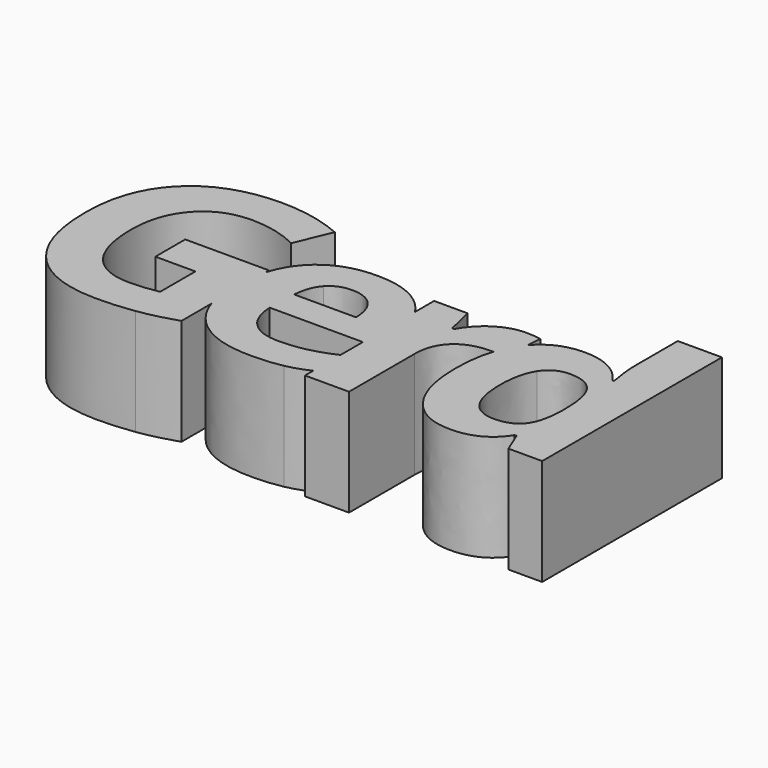
from build123d import *

# Parameters (mm, degrees)
F1_DEPTH = 10


with BuildPart() as f1:
    # F0 (on Top) → F1 (new body)
    with BuildSketch(Plane.XY):
        with BuildLine():
            Line((17.890625, 11.1371527778), (10.0217013889, 11.1371527778))
            Line((10.0217013889, 11.1371527778), (10.0217013889, 7.6345486111))
            Line((10.0217013889, 7.6345486111), (13.7803819444, 7.6345486111))
            Line((13.7803819444, 7.6345486111), (13.7803819444, 3.4982638889))
            add(Edge.make_bspline(
                [(11.1067708333, 3.2291666667), (12.4262152778, 3.2291666667), (13.7803819444, 3.4982638889)],
                knots=[0, 0, 0, 1, 1, 1], degree=2))
            add(Edge.make_bspline(
                [(7.2634548611, 4.9305555556), (8.5850694444, 3.2291666667), (11.1067708333, 3.2291666667)],
                knots=[0, 0, 0, 1, 1, 1], degree=2))
            add(Edge.make_bspline(
                [(5.9418402778, 9.8611111111), (5.9418402778, 6.6319444444), (7.2634548611, 4.9305555556)],
                knots=[0, 0, 0, 1, 1, 1], degree=2))
            add(Edge.make_bspline(
                [(7.5824652778, 14.7829861111), (5.9418402778, 12.9513888889), (5.9418402778, 9.8611111111)],
                knots=[0, 0, 0, 1, 1, 1], degree=2))
            add(Edge.make_bspline(
                [(11.9487847222, 16.6145833333), (9.2230902778, 16.6145833333), (7.5824652778, 14.7829861111)],
                knots=[0, 0, 0, 1, 1, 1], degree=2))
            add(Edge.make_bspline(
                [(16.4670138889, 15.5295138889), (14.296875, 16.6145833333), (11.9487847222, 16.6145833333)],
                knots=[0, 0, 0, 1, 1, 1], degree=2))
            Line((16.4670138889, 15.5295138889), (17.8645833333, 18.8932291667))
            add(Edge.make_bspline(
                [(11.9748263889, 20.1128472222), (15.0303819444, 20.1128472222), (17.8645833333, 18.8932291667)],
                knots=[0, 0, 0, 1, 1, 1], degree=2))
            add(Edge.make_bspline(
                [(4.3619791667, 17.4283854167), (7.109375, 20.1128472222), (11.9748263889, 20.1128472222)],
                knots=[0, 0, 0, 1, 1, 1], degree=2))
            add(Edge.make_bspline(
                [(1.6145833333, 9.9435763889), (1.6145833333, 14.7439236111), (4.3619791667, 17.4283854167)],
                knots=[0, 0, 0, 1, 1, 1], degree=2))
            add(Edge.make_bspline(
                [(3.9822048611, 2.3654513889), (1.6145833333, 5.0043402778), (1.6145833333, 9.9435763889)],
                knots=[0, 0, 0, 1, 1, 1], degree=2))
            add(Edge.make_bspline(
                [(10.8376736111, -0.2734375), (6.3498263889, -0.2734375), (3.9822048611, 2.3654513889)],
                knots=[0, 0, 0, 1, 1, 1], degree=2))
            add(Edge.make_bspline(
                [(14.2881944444, -0.0217013889), (12.5998263889, -0.2734375), (10.8376736111, -0.2734375)],
                knots=[0, 0, 0, 1, 1, 1], degree=2))
            add(Edge.make_bspline(
                [(17.890625, 0.8550347222), (15.9765625, 0.2300347222), (14.2881944444, -0.0217013889)],
                knots=[0, 0, 0, 1, 1, 1], degree=2))
            Line((17.890625, 0.8550347222), (17.890625, 4.3849023528))
            add(Edge.make_bspline(
                [(17.890625, 4.3849023528), (17.4418402778, 5.7466096194), (17.4418402778, 7.4739583333)],
                knots=[0.5334335947, 0.5334335947, 0.5334335947, 1, 1, 1], degree=2))
            add(Edge.make_bspline(
                [(17.4418402778, 7.4739583333), (17.4418402778, 9.3233974988), (17.890625, 10.7654546328)],
                knots=[0, 0, 0, 0.4853197992, 0.4853197992, 0.4853197992], degree=2))
            Line((17.890625, 10.7654546328), (17.890625, 11.1371527778))
        make_face()
        with BuildLine():
            add(Edge.make_bspline(
                [(17.890625, 10.7654546328), (18.3665598605, 12.2947519259), (19.3472222222, 13.3658854167)],
                knots=[0.4853197992, 0.4853197992, 0.4853197992, 1, 1, 1], degree=2))
            Line((17.890625, 10.7654546328), (17.890625, 4.3849023528))
            add(Edge.make_bspline(
                [(19.5034722222, 1.7491319444), (18.4037284831, 2.8280384338), (17.890625, 4.3849023528)],
                knots=[0, 0, 0, 0.5334335947, 0.5334335947, 0.5334335947], degree=2))
            add(Edge.make_bspline(
                [(25.2239583333, -0.2734375), (21.5651041667, -0.2734375), (19.5034722222, 1.7491319444)],
                knots=[0, 0, 0, 1, 1, 1], degree=2))
            add(Edge.make_bspline(
                [(28.2361111111, -0.0086805556), (27.0034722222, -0.2734375), (25.2239583333, -0.2734375)],
                knots=[0, 0, 0, 1, 1, 1], degree=2))
            add(Edge.make_bspline(
                [(30.3802083333, 0.7140314035), (29.370669575, 0.2350098187), (28.2361111111, -0.0086805556)],
                knots=[0.0795694715, 0.0795694715, 0.0795694715, 1, 1, 1], degree=2))
            Line((30.3802083333, 0.7140314035), (30.3802083333, 3.9212807597))
            add(Edge.make_bspline(
                [(28.0060763889, 3.0924479167), (29.1457668735, 3.3581053072), (30.3802083333, 3.9212807597)],
                knots=[0, 0, 0, 0.9344650807, 0.9344650807, 0.9344650807], degree=2))
            add(Edge.make_bspline(
                [(25.4149305556, 2.8081597222), (26.7864583333, 2.8081597222), (28.0060763889, 3.0924479167)],
                knots=[0, 0, 0, 1, 1, 1], degree=2))
            add(Edge.make_bspline(
                [(22.6762152778, 3.7977430556), (23.6527777778, 2.8081597222), (25.4149305556, 2.8081597222)],
                knots=[0, 0, 0, 1, 1, 1], degree=2))
            add(Edge.make_bspline(
                [(21.6302083333, 6.5494791667), (21.6996527778, 4.7873263889), (22.6762152778, 3.7977430556)],
                knots=[0, 0, 0, 1, 1, 1], degree=2))
            Line((21.6302083333, 6.5494791667), (30.3802083333, 6.5494791667))
            Line((30.3802083333, 6.5494791667), (30.3802083333, 12.6501514229))
            add(Edge.make_bspline(
                [(29.6184895833, 13.6176215278), (30.0517797145, 13.1748777938), (30.3802083333, 12.6501514229)],
                knots=[0, 0, 0, 0.2420122332, 0.2420122332, 0.2420122332], degree=2))
            add(Edge.make_bspline(
                [(24.6163194444, 15.4470486111), (27.828125, 15.4470486111), (29.6184895833, 13.6176215278)],
                knots=[0, 0, 0, 1, 1, 1], degree=2))
            add(Edge.make_bspline(
                [(19.3472222222, 13.3658854167), (21.2526041667, 15.4470486111), (24.6163194444, 15.4470486111)],
                knots=[0, 0, 0, 1, 1, 1], degree=2))
        make_face()
        with BuildLine():
            add(Edge.make_bspline(
                [(24.6423611111, 12.5043402778), (23.3272569444, 12.5043402778), (22.5807291667, 11.6710069444)],
                knots=[0, 0, 0, 1, 1, 1], degree=2))
            add(Edge.make_bspline(
                [(26.7300347222, 11.6710069444), (25.9574652778, 12.5043402778), (24.6423611111, 12.5043402778)],
                knots=[0, 0, 0, 1, 1, 1], degree=2))
            add(Edge.make_bspline(
                [(27.5329861111, 9.3055555556), (27.5026041667, 10.8376736111), (26.7300347222, 11.6710069444)],
                knots=[0, 0, 0, 1, 1, 1], degree=2))
            Line((27.5329861111, 9.3055555556), (21.7256944444, 9.3055555556))
            add(Edge.make_bspline(
                [(22.5807291667, 11.6710069444), (21.8342013889, 10.8376736111), (21.7256944444, 9.3055555556)],
                knots=[0, 0, 0, 1, 1, 1], degree=2))
        make_face(mode=Mode.SUBTRACT)
        with BuildLine():
            Line((17.890625, 4.3849023528), (17.890625, 10.7654546328))
            add(Edge.make_bspline(
                [(17.4418402778, 7.4739583333), (17.4418402778, 9.3233974988), (17.890625, 10.7654546328)],
                knots=[0, 0, 0, 0.4853197992, 0.4853197992, 0.4853197992], degree=2))
            add(Edge.make_bspline(
                [(17.890625, 4.3849023528), (17.4418402778, 5.7466096194), (17.4418402778, 7.4739583333)],
                knots=[0.5334335947, 0.5334335947, 0.5334335947, 1, 1, 1], degree=2))
        make_face()
        with BuildLine():
            Line((30.3802083333, 14.9149305556), (30.3802083333, 12.6501514229))
            add(Edge.make_bspline(
                [(30.3802083333, 12.6501514229), (31.4088541667, 11.0066966079), (31.4088541667, 8.5590277778)],
                knots=[0.2420122332, 0.2420122332, 0.2420122332, 1, 1, 1], degree=2))
            Line((31.4088541667, 8.5590277778), (31.4088541667, 6.5494791667))
            Line((31.4088541667, 6.5494791667), (30.3802083333, 6.5494791667))
            Line((30.3802083333, 6.5494791667), (30.3802083333, 3.9212807597))
            add(Edge.make_bspline(
                [(30.3802083333, 3.9212807597), (30.4667808797, 3.9607767865), (30.5538194444, 4.0017361111)],
                knots=[0.9344650807, 0.9344650807, 0.9344650807, 1, 1, 1], degree=2))
            Line((30.5538194444, 4.0017361111), (30.5538194444, 0.7986111111))
            add(Edge.make_bspline(
                [(30.5538194444, 0.7986111111), (30.4674810422, 0.75544191), (30.3802083333, 0.7140314035)],
                knots=[0, 0, 0, 0.0795694715, 0.0795694715, 0.0795694715], degree=2))
            Line((30.3802083333, 0.7140314035), (30.3802083333, -0.25))
            Line((30.3802083333, -0.25), (34.5164930556, -0.25))
            Line((34.5164930556, -0.25), (34.5164930556, 7.4670138889))
            add(Edge.make_bspline(
                [(35.6232638889, 10.31640625), (34.5164930556, 9.2986111111), (34.5164930556, 7.4670138889)],
                knots=[0, 0, 0, 1, 1, 1], degree=2))
            add(Edge.make_bspline(
                [(38.7092013889, 11.3342013889), (36.7300347222, 11.3342013889), (35.6232638889, 10.31640625)],
                knots=[0, 0, 0, 1, 1, 1], degree=2))
            add(Edge.make_bspline(
                [(38.8165486425, 11.3334282993), (38.7634860059, 11.3342013889), (38.7092013889, 11.3342013889)],
                knots=[0.9241989348, 0.9241989348, 0.9241989348, 1, 1, 1], degree=2))
            add(Edge.make_bspline(
                [(38.8165486425, 11.3334282993), (39.1942474456, 12.4941522946), (39.8441840278, 13.3658854167)],
                knots=[0.5811317803, 0.5811317803, 0.5811317803, 1, 1, 1], degree=2))
            add(Edge.make_bspline(
                [(39.8441840278, 13.3658854167), (39.9834871312, 13.5527269218), (40.1322530254, 13.7227942749)],
                knots=[0, 0, 0, 0.0897774407, 0.0897774407, 0.0897774407], degree=2))
            Line((40.1322530254, 13.7227942749), (40.2413194444, 15.0755208333))
            add(Edge.make_bspline(
                [(38.84375, 15.1970486111), (39.6857638889, 15.1970486111), (40.2413194444, 15.0755208333)],
                knots=[0, 0, 0, 1, 1, 1], degree=2))
            add(Edge.make_bspline(
                [(36.2330729167, 14.41796875), (37.4331597222, 15.1970486111), (38.84375, 15.1970486111)],
                knots=[0, 0, 0, 1, 1, 1], degree=2))
            add(Edge.make_bspline(
                [(34.3255208333, 12.3628472222), (35.0329861111, 13.6388888889), (36.2330729167, 14.41796875)],
                knots=[0, 0, 0, 1, 1, 1], degree=2))
            Line((34.3255208333, 12.3628472222), (34.1258680556, 12.3628472222))
            Line((34.1258680556, 12.3628472222), (33.5138888889, 14.9149305556))
            Line((33.5138888889, 14.9149305556), (30.3802083333, 14.9149305556))
        make_face()
        with BuildLine():
            add(Edge.make_bspline(
                [(30.3802083333, 12.6501514229), (31.4088541667, 11.0066966079), (31.4088541667, 8.5590277778)],
                knots=[0.2420122332, 0.2420122332, 0.2420122332, 1, 1, 1], degree=2))
            Line((30.3802083333, 12.6501514229), (30.3802083333, 6.5494791667))
            Line((30.3802083333, 6.5494791667), (31.4088541667, 6.5494791667))
            Line((31.4088541667, 6.5494791667), (31.4088541667, 8.5590277778))
        make_face()
        with BuildLine():
            Line((30.3802083333, 3.9212807597), (30.3802083333, 0.7140314035))
            add(Edge.make_bspline(
                [(30.5538194444, 0.7986111111), (30.4674810422, 0.75544191), (30.3802083333, 0.7140314035)],
                knots=[0, 0, 0, 0.0795694715, 0.0795694715, 0.0795694715], degree=2))
            Line((30.5538194444, 0.7986111111), (30.5538194444, 4.0017361111))
            add(Edge.make_bspline(
                [(30.3802083333, 3.9212807597), (30.4667808797, 3.9607767865), (30.5538194444, 4.0017361111)],
                knots=[0.9344650807, 0.9344650807, 0.9344650807, 1, 1, 1], degree=2))
        make_face()
        with BuildLine():
            add(Edge.make_bspline(
                [(38.8165486425, 11.3334282993), (39.1942474456, 12.4941522946), (39.8441840278, 13.3658854167)],
                knots=[0.5811317803, 0.5811317803, 0.5811317803, 1, 1, 1], degree=2))
            add(Edge.make_bspline(
                [(39.9288194444, 11.1996527778), (39.4635109529, 11.3240024608), (38.8165486425, 11.3334282993)],
                knots=[0, 0, 0, 0.9241989348, 0.9241989348, 0.9241989348], degree=2))
            Line((39.9288194444, 11.1996527778), (40.1322530254, 13.7227942749))
            add(Edge.make_bspline(
                [(39.8441840278, 13.3658854167), (39.9834871312, 13.5527269218), (40.1322530254, 13.7227942749)],
                knots=[0, 0, 0, 0.0897774407, 0.0897774407, 0.0897774407], degree=2))
        make_face()
        with BuildLine():
            add(Edge.make_bspline(
                [(39.9288194444, 11.1996527778), (39.4635109529, 11.3240024608), (38.8165486425, 11.3334282993)],
                knots=[0, 0, 0, 0.9241989348, 0.9241989348, 0.9241989348], degree=2))
            add(Edge.make_bspline(
                [(38.2925347222, 7.5564236111), (38.2925347222, 9.7230564206), (38.8165486425, 11.3334282993)],
                knots=[0, 0, 0, 0.5811317803, 0.5811317803, 0.5811317803], degree=2))
            add(Edge.make_bspline(
                [(39.8181423611, 1.8033854167), (38.2925347222, 3.8802083333), (38.2925347222, 7.5564236111)],
                knots=[0, 0, 0, 1, 1, 1], degree=2))
            add(Edge.make_bspline(
                [(44.0130208333, -0.2734375), (41.34375, -0.2734375), (39.8181423611, 1.8033854167)],
                knots=[0, 0, 0, 1, 1, 1], degree=2))
            add(Edge.make_bspline(
                [(48.3142361111, 1.9661458333), (46.9036458333, -0.2734375), (44.0130208333, -0.2734375)],
                knots=[0, 0, 0, 1, 1, 1], degree=2))
            Line((48.3142361111, 1.9661458333), (48.4921875, 1.9661458333))
            Line((48.4921875, 1.9661458333), (49.2907986111, 0))
            Line((49.2907986111, 0), (52.4635416667, 0))
            Line((52.4635416667, 0), (52.4635416667, 21.1067708333))
            Line((52.4635416667, 21.1067708333), (48.3142361111, 21.1067708333))
            Line((48.3142361111, 21.1067708333), (48.3142361111, 16.25))
            add(Edge.make_bspline(
                [(48.6267361111, 13.2248263889), (48.3142361111, 14.921875), (48.3142361111, 16.25)],
                knots=[0, 0, 0, 1, 1, 1], degree=2))
            Line((48.6267361111, 13.2248263889), (48.4921875, 13.2248263889))
            add(Edge.make_bspline(
                [(44.1215277778, 15.4470486111), (46.9861111111, 15.4470486111), (48.4921875, 13.2248263889)],
                knots=[0, 0, 0, 1, 1, 1], degree=2))
            add(Edge.make_bspline(
                [(40.1322530254, 13.7227942749), (41.6405392046, 15.4470486111), (44.1215277778, 15.4470486111)],
                knots=[0.0897774407, 0.0897774407, 0.0897774407, 1, 1, 1], degree=2))
            Line((40.1322530254, 13.7227942749), (39.9288194444, 11.1996527778))
        make_face()
        with BuildLine():
            add(Edge.make_bspline(
                [(45.4670138889, 3.0251736111), (47.0512152778, 3.0251736111), (47.7912326389, 3.9474826389)],
                knots=[0, 0, 0, 1, 1, 1], degree=2))
            add(Edge.make_bspline(
                [(43.2534722222, 4.1449652778), (44.0260416667, 3.0251736111), (45.4670138889, 3.0251736111)],
                knots=[0, 0, 0, 1, 1, 1], degree=2))
            add(Edge.make_bspline(
                [(42.4809027778, 7.5), (42.4809027778, 5.2647569444), (43.2534722222, 4.1449652778)],
                knots=[0, 0, 0, 1, 1, 1], degree=2))
            add(Edge.make_bspline(
                [(43.2469618056, 10.9114583333), (42.4809027778, 9.7395833333), (42.4809027778, 7.5)],
                knots=[0, 0, 0, 1, 1, 1], degree=2))
            add(Edge.make_bspline(
                [(45.3975694444, 12.0833333333), (44.0130208333, 12.0833333333), (43.2469618056, 10.9114583333)],
                knots=[0, 0, 0, 1, 1, 1], degree=2))
            add(Edge.make_bspline(
                [(47.84765625, 11.0264756944), (47.0946180556, 12.0833333333), (45.3975694444, 12.0833333333)],
                knots=[0, 0, 0, 1, 1, 1], degree=2))
            add(Edge.make_bspline(
                [(48.6006944444, 7.5260416667), (48.6006944444, 9.9696180556), (47.84765625, 11.0264756944)],
                knots=[0, 0, 0, 1, 1, 1], degree=2))
            Line((48.6006944444, 7.5260416667), (48.6006944444, 7.0789930556))
            add(Edge.make_bspline(
                [(47.7912326389, 3.9474826389), (48.53125, 4.8697916667), (48.6006944444, 7.0789930556)],
                knots=[0, 0, 0, 1, 1, 1], degree=2))
        make_face(mode=Mode.SUBTRACT)
    extrude(amount=F1_DEPTH)


solid = f1.part
